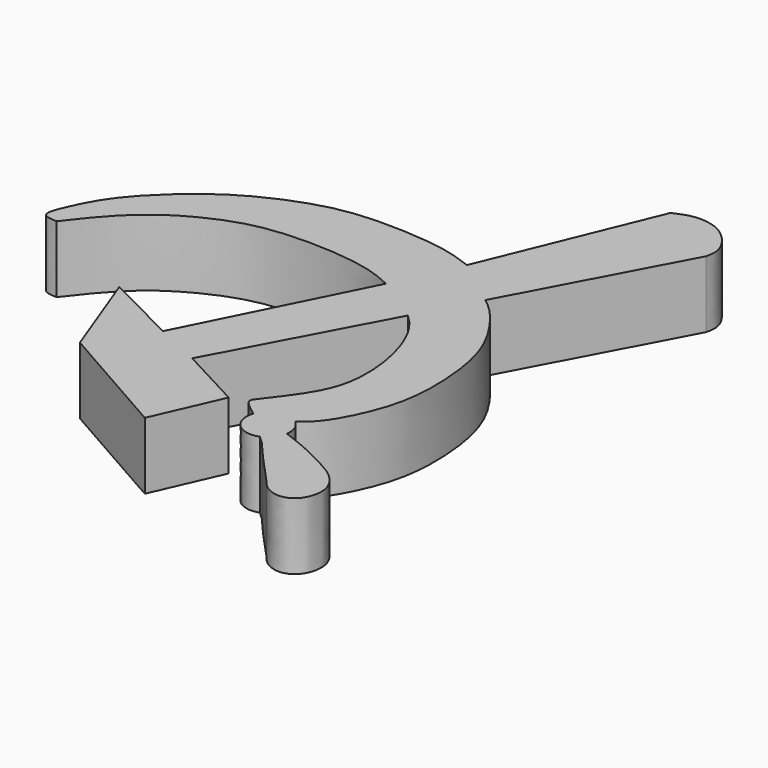
from build123d import *

# Parameters (mm, degrees)
F1_DEPTH = 8.89


with BuildPart() as f1:
    # F0 (on Top) → F1 (new body)
    with BuildSketch(Plane.XY):
        with BuildLine():
            add(Edge.make_bspline(
                [(39.4274704158, 11.113524437), (40.3610824632, 10.7553655693), (42.4829576044, 9.9413567957), (44.634837428, 7.5192105656), (45.839903328, 6.1627938202)],
                knots=[0, 0, 0, 0, 0.4399938664, 1, 1, 1, 1], degree=3))
            Line((45.839903328, 6.1627938202), (57.5767681003, 28.1792655587))
            add(Edge.make_bspline(
                [(48.6039668322, 33.4765687585), (49.3381367026, 33.8109272171), (50.8944607357, 34.5197142781), (54.1610789672, 34.2714082484), (56.6061731934, 32.3268687592), (57.9557846526, 29.9144916432), (57.6934422411, 28.7134269594), (57.5767681003, 28.1792655587)],
                knots=[0, 0, 0, 0, 0.1965742197, 0.4167062621, 0.6367311767, 0.8384398559, 1, 1, 1, 1], degree=3))
            Line((48.6039668322, 33.4765687585), (39.4274704158, 11.113524437))
        make_face()
        with BuildLine():
            add(Edge.make_bspline(
                [(47.4999509752, -27.4870060384), (48.1526866443, -27.0101080497), (49.8640219047, -25.7597821025), (53.240600854, -19.0475071395), (54.0265383019, -12.4419256192), (53.3064795222, -5.0894150957), (51.3042070992, -0.0567878694), (47.9795085328, 4.4719212405), (46.4619328319, 5.6712205947), (45.839903328, 6.1627938202)],
                knots=[0, 0, 0, 0, 0.1036499156, 0.2717482186, 0.4370457285, 0.6046452447, 0.7522969581, 0.8984705671, 1, 1, 1, 1], degree=3))
            Line((45.839903328, 6.1627938202), (41.7222155226, -1.5613266288))
            add(Edge.make_bspline(
                [(41.7222155226, -1.5613266288), (43.0368910157, -2.7707897352), (44.7465859177, -5.2593896208), (46.5698793337, -10.9316163794), (46.7548910122, -18.279166089), (43.340560927, -23.3207437994), (41.6630822478, -25.4866803681), (40.9110747278, -26.4576617628)],
                knots=[0.6065399383, 0.6065399383, 0.6065399383, 0.6065399383, 0.6798836495, 0.7611946469, 0.8517154016, 0.9335245601, 1, 1, 1, 1], degree=3))
            add(Edge.make_bspline(
                [(40.9110747278, -26.4576617628), (40.8656459611, -26.6151519911), (40.7167219231, -27.1314345687), (42.0324008721, -28.12991004), (42.9798185958, -28.8346956604)],
                knots=[0, 0, 0, 0, 0.2949882691, 0.9670270062, 0.9670270062, 0.9670270062, 0.9670270062], degree=3))
            add(Edge.make_bspline(
                [(42.9798185958, -28.8346956604), (42.9492631542, -28.9333918678), (42.8717238982, -29.1662569599), (42.7875018175, -29.7918879638), (42.8876406925, -30.4966369059), (43.0730046206, -30.9689572919), (43.2608303117, -31.3494460217), (43.8148323709, -32.0034108751), (44.3949232761, -32.3695939692), (45.1384513447, -32.6273980485), (45.8289437792, -32.6751867227), (46.4759250493, -32.5503916919), (46.6676869296, -32.476732403), (46.7431719959, -32.4473001868)],
                knots=[0, 0, 0, 0, 0.069182326, 0.1639901927, 0.2657789002, 0.3492918999, 0.4269415768, 0.5359681885, 0.636398882, 0.7408350574, 0.8417678695, 0.9375539342, 1, 1, 1, 1], degree=3))
            add(Edge.make_bspline(
                [(46.7431719959, -32.4473001868), (47.0582486416, -32.7429352258), (47.3733252873, -33.0385702647), (47.7701984346, -33.4104597569)],
                knots=[0, 0, 0, 0, 0.0633828455, 0.0633828455, 0.0633828455, 0.0633828455], degree=3))
            add(Edge.make_bspline(
                [(47.7701984346, -33.4104597569), (48.3441823775, -33.9483107012), (49.9758293051, -35.4754439192), (52.3399733655, -38.0142492188), (53.2773723874, -39.4782025162), (53.5771544169, -39.8797605795)],
                knots=[0.0633828455, 0.0633828455, 0.0633828455, 0.0633828455, 0.1550512685, 0.2641280401, 0.3117947618, 0.3117947618, 0.3117947618, 0.3117947618], degree=3))
            add(Edge.make_bspline(
                [(53.5771544169, -39.8797605795), (53.8513426917, -40.2470358053), (54.6961394773, -41.2223803942), (56.9827810215, -41.966372564), (59.2330696854, -40.3912933818), (59.7461806943, -37.2523540291), (58.213217802, -35.0749436964), (56.5029884798, -33.7746503564), (52.416312327, -31.6434670413), (49.8139644935, -30.6612874035), (48.5322839759, -30.1775547946)],
                knots=[0.3117947618, 0.3117947618, 0.3117947618, 0.3117947618, 0.3553919587, 0.4403506612, 0.5231644939, 0.6142902524, 0.6979085583, 0.7761849827, 0.8897690218, 1, 1, 1, 1], degree=3))
            add(Edge.make_bspline(
                [(47.4999509752, -27.4870060384), (47.5248769571, -27.532221894), (47.6022552633, -27.6625173057), (48.1336287594, -28.1586133207), (48.5572799081, -29.0778349267), (48.5409481833, -29.8066038425), (48.5322839759, -30.1775547946)],
                knots=[0, 0, 0, 0, 0.1286596216, 0.3799766484, 0.6839817108, 1, 1, 1, 1], degree=3))
        make_face()
        with BuildLine():
            Line((41.7222155226, -1.5613266288), (45.839903328, 6.1627938202))
            add(Edge.make_bspline(
                [(39.4274704158, 11.113524437), (40.3610824632, 10.7553655693), (42.4829576044, 9.9413567957), (44.634837428, 7.5192105656), (45.839903328, 6.1627938202)],
                knots=[0, 0, 0, 0, 0.4399938664, 1, 1, 1, 1], degree=3))
            add(Edge.make_bspline(
                [(39.4274704158, 11.113524437), (38.2233993758, 11.5578561499), (35.410749397, 12.5957929005), (27.8826764763, 13.2226228259), (20.1264525718, 12.8414270171), (11.6238668472, 9.1992509101), (6.4326285422, 5.4083511182), (1.1689181474, 0.2271991359), (-1.024071179, -4.1479619073), (-2.472637408, -7.7046476126), (-0.7635448636, -7.7751231754), (0, -7.8066084534)],
                knots=[0, 0, 0, 0, 0.0961992338, 0.2247166189, 0.3584404383, 0.4999524425, 0.6213251371, 0.7480271858, 0.856147433, 0.9357332118, 1, 1, 1, 1], degree=3))
            add(Edge.make_bspline(
                [(0, -7.8066084534), (0.5229863465, -7.1167317237), (1.8098853101, -5.4191699147), (5.9195089773, -0.7118642425), (11.7527094344, 2.7395321875), (18.5045792454, 5.1463526599), (29.531435126, 4.7980589507), (33.4838821188, 3.5611173237), (35.4657918215, 2.5863966439)],
                knots=[0, 0, 0, 0, 0.0571859553, 0.1407159997, 0.2281734196, 0.3189274878, 0.4290811775, 0.5142261263, 0.5142261263, 0.5142261263, 0.5142261263], degree=3))
            add(Edge.make_bspline(
                [(35.4657918215, 2.5863966439), (37.6145703725, 1.5296083921), (40.0675036979, -0.0390400156), (41.7222155226, -1.5613266288)],
                knots=[0.5142261263, 0.5142261263, 0.5142261263, 0.5142261263, 0.6065399383, 0.6065399383, 0.6065399383, 0.6065399383], degree=3))
        make_face()
        with BuildLine():
            Line((30.2486140281, -23.0839587748), (41.7222155226, -1.5613266288))
            add(Edge.make_bspline(
                [(35.4657918215, 2.5863966439), (37.6145703725, 1.5296083921), (40.0675036979, -0.0390400156), (41.7222155226, -1.5613266288)],
                knots=[0.5142261263, 0.5142261263, 0.5142261263, 0.5142261263, 0.6065399383, 0.6065399383, 0.6065399383, 0.6065399383], degree=3))
            Line((35.4657918215, 2.5863966439), (24.061024189, -20.1907102019))
            Line((24.061024189, -20.1907102019), (14.3252477259, -15.3158914185))
            Line((14.3252477259, -15.3158914185), (18.9318004996, -27.5973517537))
            Line((18.9318004996, -27.5973517537), (34.7624868155, -36.6055369377))
            Line((34.7624868155, -36.6055369377), (38.7150137772, -27.5973517537))
            Line((38.7150137772, -27.5973517537), (30.2486140281, -23.0839587748))
        make_face()
        with BuildLine():
            add(Edge.make_bspline(
                [(47.7701984346, -33.4104597569), (47.9614939959, -33.6375270592), (48.434422613, -34.1996374029), (49.851436538, -35.8611425991), (52.1413475244, -38.339534403), (53.5771544169, -39.8797605795)],
                knots=[0, 0, 0, 0, 0.2032827872, 0.5030024713, 1, 1, 1, 1], degree=3))
            add(Edge.make_bspline(
                [(47.7701984346, -33.4104597569), (48.3441823775, -33.9483107012), (49.9758293051, -35.4754439192), (52.3399733655, -38.0142492188), (53.2773723874, -39.4782025162), (53.5771544169, -39.8797605795)],
                knots=[0.0633828455, 0.0633828455, 0.0633828455, 0.0633828455, 0.1550512685, 0.2641280401, 0.3117947618, 0.3117947618, 0.3117947618, 0.3117947618], degree=3))
        make_face()
    extrude(amount=F1_DEPTH)


solid = f1.part
